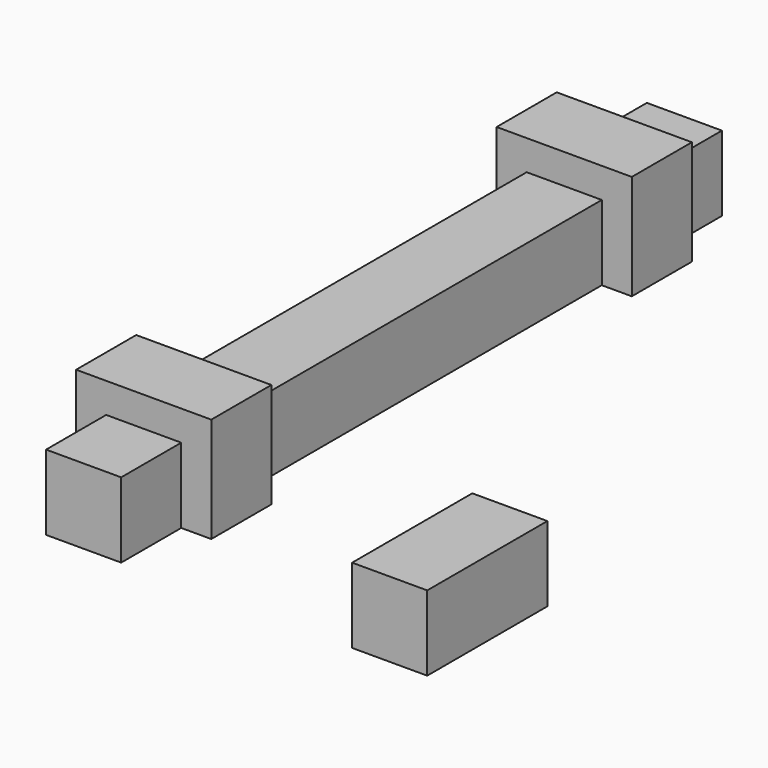
from build123d import *

# Parameters (mm, degrees)
F0_W      = 9
F0_H      = 7
F1_DEPTH  = 5
F2_W      = 5
F2_H      = 5
F3_DEPTH  = 5
F4_W      = 5
F4_H      = 5
F5_DEPTH  = 30
F6_W      = 5
F6_H      = 5
F7_DEPTH  = 5
F8_W      = 5
F8_H      = 5
F9_DEPTH  = 5
F10_W     = 5
F10_H     = 5
F11_DEPTH = 10


with BuildPart() as f1:
    # F0 (on Front) → F1 (new body)
    with BuildSketch(Plane.XZ):
        with Locations((0.430352969, 3.5)):
            Rectangle(F0_W, F0_H)
    extrude(amount=F1_DEPTH)

    # F2 (on face) → F3 (join)
    with BuildSketch(Plane.XZ.offset(5)):
        with Locations((0.430352969, 2.5)):
            Rectangle(F2_W, F2_H)
    extrude(amount=F3_DEPTH)

    # F4 (on face) → F5 (join)
    with BuildSketch(Plane.XZ):
        with Locations((0.430352969, 2.5)):
            Rectangle(F4_W, F4_H)
    extrude(amount=-F5_DEPTH)

    # F6 (on face) → F7 (join)
    with BuildSketch(Plane(origin=(0, 30, 0), x_dir=(-1, 0, 0), z_dir=(0, 1, 0))):
        Polygon((-4.930352969, 7), (-4.930352969, 0), (-2.930352969, 0), (-2.930352969, 5), (2.069647031, 5), (2.069647031, 0), (4.069647031, 0), (4.069647031, 7), align=None)
        with Locations((-0.430352969, 2.5)):
            Rectangle(F6_W, F6_H)
    extrude(amount=F7_DEPTH)

    # F8 (on face) → F9 (join)
    with BuildSketch(Plane(origin=(0, 35, 0), x_dir=(-1, 0, 0), z_dir=(0, 1, 0))):
        with Locations((-0.430352969, 2.5)):
            Rectangle(F8_W, F8_H)
    extrude(amount=F9_DEPTH)


with BuildPart() as f11:
    # F10 (on Front) → F11 (new body)
    with BuildSketch(Plane.XZ):
        with Locations((20.8084413492, 2.5)):
            Rectangle(F10_W, F10_H)
    extrude(amount=F11_DEPTH)


solid = Compound([f1.part, f11.part])
